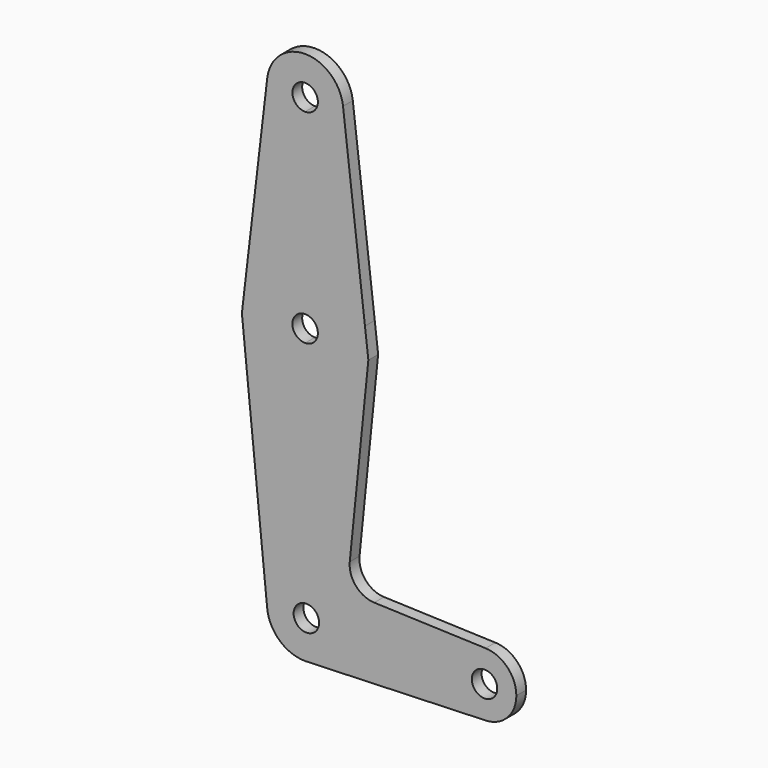
from build123d import *

# Parameters (mm, degrees)
F1_DEPTH = 3.048


with BuildPart() as f1:
    # F0 (on Front) → F1 (new body)
    with BuildSketch(Plane.XZ):
        with BuildLine():
            Line((8.1654355096, -30.0212093973), (12.8037621143, 15.7850490456))
            ThreePointArc((12.8037621143, 15.7850490456), (7.6029756143, 5.7351976121), (-2.9697543675, 1.7021993741))
            Line((-2.9697543675, 1.7021993741), (-2.9697543675, -36.3978006259))
            ThreePointArc((-2.9697543675, -36.3978006259), (3.7654377233, -39.1876085351), (6.5552456325, -45.9228006259))
            Line((6.5552456325, -45.9228006259), (33.8499665981, -45.9228006259))
            ThreePointArc((33.8499665981, -45.9228006259), (36.2748635046, -40.211836313), (42.0679479232, -37.9902577501))
            Line((42.0679479232, -37.9902577501), (14.2587437531, -37.0069712358))
            ThreePointArc((14.2587437531, -37.0069712358), (9.6977433067, -34.8349740164), (8.1654355096, -30.0212093973))
        make_face()
        with BuildLine():
            Line((33.8499665981, -45.9228006259), (6.5552456325, -45.9228006259))
            ThreePointArc((6.5552456325, -45.9228006259), (3.9992277603, -52.415790161), (-2.297019586, -55.4240138597))
            Line((-2.297019586, -55.4240138597), (42.0679479232, -53.8553435017))
            ThreePointArc((42.0679479232, -53.8553435017), (36.2748635046, -51.6337649389), (33.8499665981, -45.9228006259))
        make_face()
        with BuildLine():
            ThreePointArc((49.7249665981, -45.9228006259), (47.4984309111, -40.4101975324), (42.0679479232, -37.9902577501))
            ThreePointArc((42.0679479232, -37.9902577501), (36.2748635046, -40.211836313), (33.8499665981, -45.9228006259))
            ThreePointArc((33.8499665981, -45.9228006259), (36.2748635046, -51.6337649389), (42.0679479232, -53.8553435017))
            ThreePointArc((42.0679479232, -53.8553435017), (47.4984309111, -51.4354037194), (49.7249665981, -45.9228006259))
        make_face()
        with BuildLine():
            ThreePointArc((44.9624665981, -45.9228006259), (41.7874665981, -49.0978006259), (38.6124665981, -45.9228006259))
            ThreePointArc((38.6124665981, -45.9228006259), (41.7874665981, -42.7478006259), (44.9624665981, -45.9228006259))
        make_face(mode=Mode.SUBTRACT)
        with BuildLine():
            ThreePointArc((-2.9697543675, 1.7021993741), (-13.559430228, 5.7503489832), (-18.7483385679, 15.8302289591))
            Line((-18.7483385679, 15.8302289591), (-12.4713725515, -46.5897915438))
            ThreePointArc((-12.4713725515, -46.5897915438), (-9.9367735828, -39.4277049181), (-2.9697543675, -36.3978006259))
            Line((-2.9697543675, -36.3978006259), (-2.9697543675, 1.7021993741))
        make_face()
        with BuildLine():
            Line((-2.9697543675, 33.4521993741), (-2.9697543675, 58.8521995871))
            ThreePointArc((-2.9697543675, 58.8521995871), (-10.0878960865, 62.0480857386), (-12.429392965, 69.4911376794))
            Line((-12.429392965, 69.4911376794), (-17.9109210732, 22.9416343371))
            ThreePointArc((-17.9109210732, 22.9416343371), (-12.1036259443, 30.5613441291), (-2.9697543675, 33.4521993741))
        make_face()
        with BuildLine():
            ThreePointArc((6.5552454195, 68.3771993741), (3.7654375727, 61.6420074339), (-2.9697543675, 58.8521995871))
            Line((-2.9697543675, 58.8521995871), (-2.9697543675, 33.4521993741))
            ThreePointArc((-2.9697543675, 33.4521993741), (6.1479951794, 30.572670439), (11.9580504091, 22.978705604))
            Line((11.9580504091, 22.978705604), (6.4900965801, 69.489332906))
            ThreePointArc((6.4900965801, 69.489332906), (6.5389442607, 68.9342194285), (6.5552454195, 68.3771993741))
        make_face()
        with BuildLine():
            Line((-2.9697543675, 20.7521993741), (-2.9697543675, 33.4521993741))
            ThreePointArc((-2.9697543675, 33.4521993741), (-12.1036259443, 30.5613441291), (-17.9109210732, 22.9416343371))
            Line((-17.9109210732, 22.9416343371), (-18.7483385679, 15.8302289591))
            ThreePointArc((-18.7483385679, 15.8302289591), (-13.559430228, 5.7503489832), (-2.9697543675, 1.7021993741))
            Line((-2.9697543675, 1.7021993741), (-2.9697543675, 14.4021993741))
            ThreePointArc((-2.9697543675, 14.4021993741), (-6.1447543675, 17.5771993741), (-2.9697543675, 20.7521993741))
        make_face()
        with BuildLine():
            ThreePointArc((-2.9697543675, -36.3978006259), (-9.9367735828, -39.4277049181), (-12.4713725515, -46.5897915438))
            ThreePointArc((-12.4713725515, -46.5897915438), (-9.4648500753, -52.8898198412), (-2.9697543675, -55.4478006259))
            Line((-2.9697543675, -55.4478006259), (-2.297019586, -55.4240138597))
            ThreePointArc((-2.297019586, -55.4240138597), (3.9992277603, -52.415790161), (6.5552456325, -45.9228006259))
            Line((6.5552456325, -45.9228006259), (0.5124665981, -45.9228006259))
            ThreePointArc((0.5124665981, -45.9228006259), (-4.7962154815, -48.2739760304), (-2.9697543675, -42.7626993177))
            Line((-2.9697543675, -42.7626993177), (-2.9697543675, -36.3978006259))
        make_face()
        with BuildLine():
            ThreePointArc((6.5552456325, -45.9228006259), (3.7654377233, -39.1876085351), (-2.9697543675, -36.3978006259))
            Line((-2.9697543675, -36.3978006259), (-2.9697543675, -42.7626993177))
            ThreePointArc((-2.9697543675, -42.7626993177), (-0.5288513222, -43.5716252214), (0.5124665981, -45.9228006259))
            Line((0.5124665981, -45.9228006259), (6.5552456325, -45.9228006259))
        make_face()
        with BuildLine():
            ThreePointArc((11.9580504091, 22.978705604), (6.1479951794, 30.572670439), (-2.9697543675, 33.4521993741))
            Line((-2.9697543675, 33.4521993741), (-2.9697543675, 20.7521993741))
            ThreePointArc((-2.9697543675, 20.7521993741), (-0.7246903372, 19.8222634044), (0.2052456325, 17.5771993741))
            ThreePointArc((0.2052456325, 17.5771993741), (-0.7246903372, 15.3321353438), (-2.9697543675, 14.4021993741))
            Line((-2.9697543675, 14.4021993741), (-2.9697543675, 1.7021993741))
            ThreePointArc((-2.9697543675, 1.7021993741), (7.6029756143, 5.7351976121), (12.8037621143, 15.7850490456))
            Line((12.8037621143, 15.7850490456), (11.9580504091, 22.978705604))
        make_face()
        with BuildLine():
            ThreePointArc((-12.429392965, 69.4911376794), (-10.0878960865, 62.0480857386), (-2.9697543675, 58.8521995871))
            ThreePointArc((-2.9697543675, 58.8521995871), (3.7654375727, 61.6420074339), (6.5552454195, 68.3771993741))
            ThreePointArc((6.5552454195, 68.3771993741), (6.5389442607, 68.9342194285), (6.4900965801, 69.489332906))
            ThreePointArc((6.4900965801, 69.489332906), (-2.968845756, 77.9021991178), (-12.429392965, 69.4911376794))
        make_face()
        with BuildLine():
            ThreePointArc((0.2052456325, 68.3771993741), (-0.7246903372, 66.1321353438), (-2.9697543675, 65.2021993741))
            ThreePointArc((-2.9697543675, 65.2021993741), (-5.2148183978, 70.6222634044), (0.2052456325, 68.3771993741))
        make_face(mode=Mode.SUBTRACT)
    extrude(amount=F1_DEPTH)


solid = f1.part
